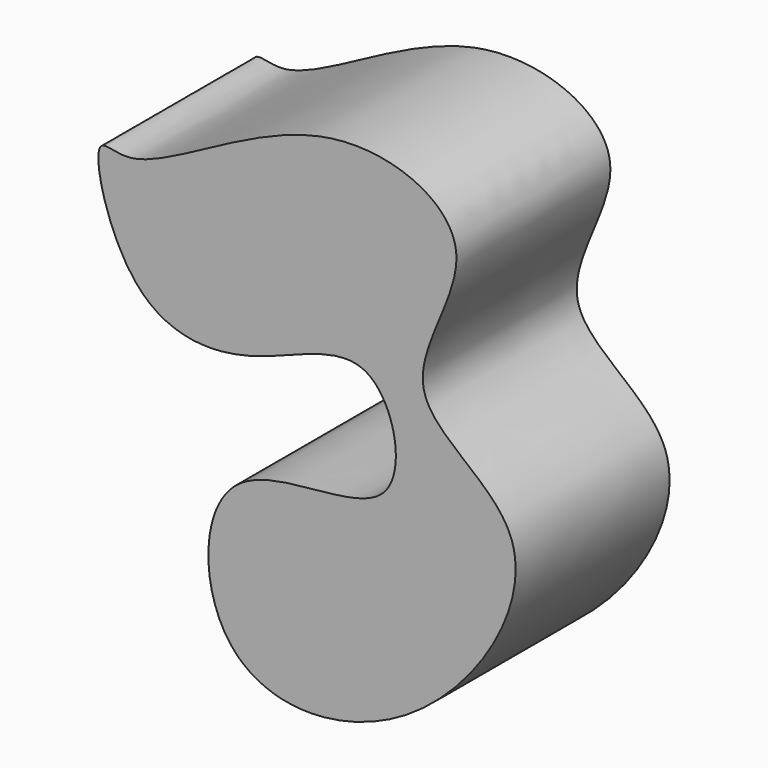
from build123d import *

# Parameters (mm, degrees)
F1_DEPTH = 25.4


with BuildPart() as f1:
    # F0 (on Front) → F1 (new body)
    with BuildSketch(Plane.XZ):
        with BuildLine():
            add(Edge.make_bspline(
                [(-19.869286567, 27.9040001333), (-21.8966529242, 27.7224562672), (-25.855224203, 30.5554152975), (-20.6227937591, 9.3366644356), (-3.7355492773, 8.0524741598), (13.2047668301, 18.819321588), (18.6988087132, -6.0363575076), (-10.8171676553, 1.0210619353), (-10.5626909829, -30.6532424925), (19.5194370236, -29.7843067579), (38.8456293406, 2.1691126949), (11.6886023949, 11.3451479422), (30.1877262051, 33.2587084586), (4.7048428105, 44.18342714), (-14.3968240752, 28.394040818), (-19.869286567, 27.9040001333)],
                knots=[0, 0, 0, 0, 0.0361699911, 0.1078309159, 0.1803566624, 0.2525366713, 0.3190730645, 0.4014320701, 0.481988601, 0.570057234, 0.6678689677, 0.7452177514, 0.823550721, 0.9023664772, 1, 1, 1, 1], degree=3))
        make_face()
    extrude(amount=F1_DEPTH)


solid = f1.part
